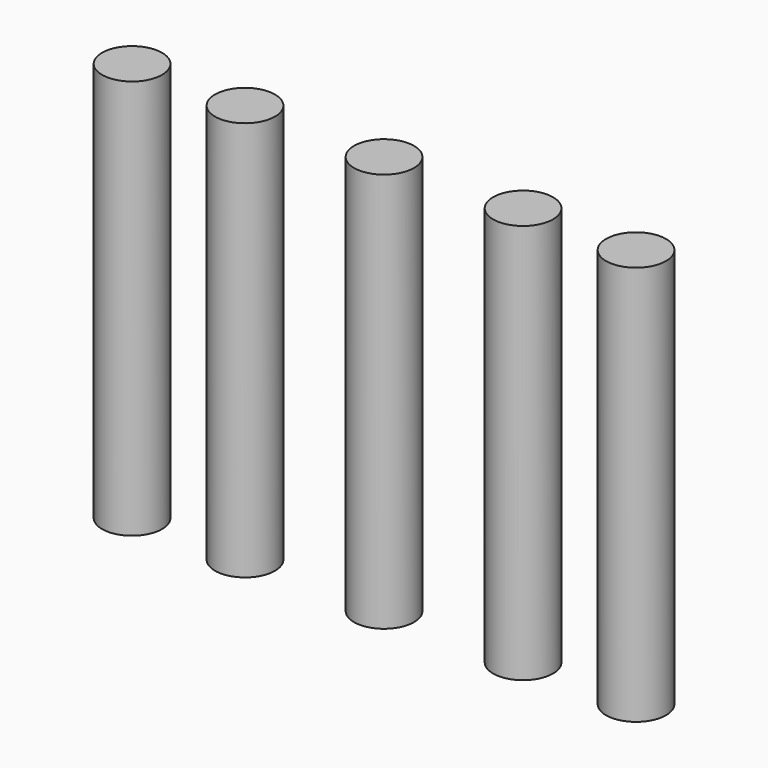
from build123d import *

# Parameters (mm, degrees)
F0_R     = 1.5
F1_DEPTH = 20


with BuildPart() as f1:
    # F0 (on Top) → F1 (new body)
    with BuildSketch(Plane.XY):
        Circle(F0_R)
        with Locations((6.954546, 0)):
            Circle(F0_R)
        with Locations((12.603714, 0)):
            Circle(F0_R)
        with Locations((-6.954546, 0)):
            Circle(F0_R)
        with Locations((-12.603714, 0)):
            Circle(F0_R)
    extrude(amount=F1_DEPTH)


solid = f1.part
